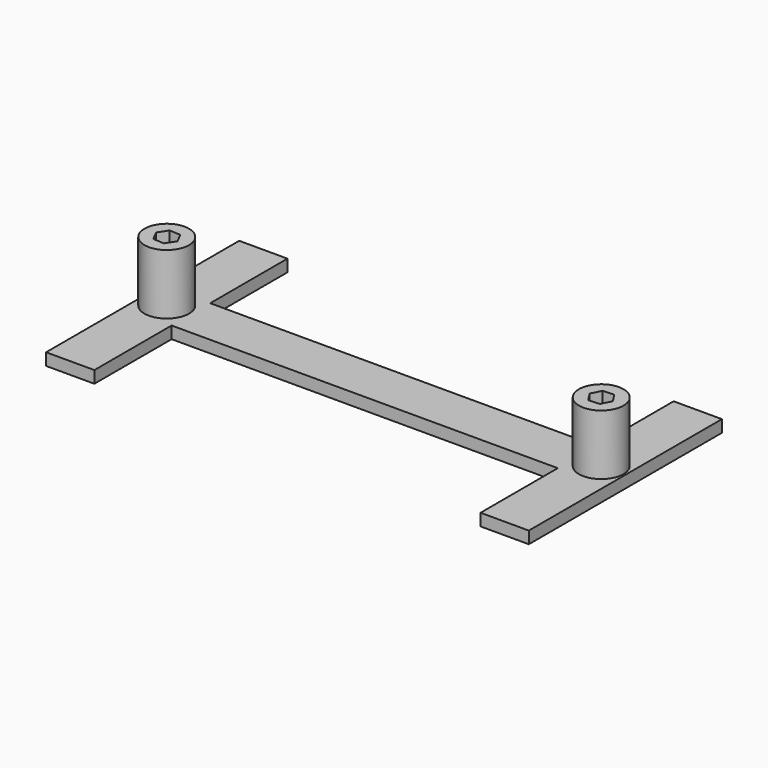
from build123d import *

# Parameters (mm, degrees)
PAD_DEPTH    = 5
SKETCH002_R  = 9.228742
PAD001_DEPTH = 25
POCKET_DEPTH = 25


with BuildPart() as part:
    # Sketch001 → Pad (new body)
    with BuildSketch(Plane.XY):
        Polygon((0, 10), (80, 10), (80, 50), (100, 50), (100, -50), (80, -50), (80, -10), (0, -10), (-80, -10), (-80, -50), (-100, -50), (-100, 50), (-80, 50), (-80, 10), align=None)
    extrude(amount=PAD_DEPTH)

    # Sketch002 → Pad001 (new body)
    with BuildSketch(Plane.XY.offset(5)):
        with Locations((90, 0)):
            Circle(SKETCH002_R)
        with Locations((-90, 0)):
            Circle(SKETCH002_R)
    extrude(amount=PAD001_DEPTH)

    # Sketch003 → Pocket (cut)
    with BuildSketch(Plane.XY.offset(30)):
        Polygon((-87.480573, 3.871152), (-92.092803, 4.117464), (-94.61223, 0.246312), (-92.519427, -3.871152), (-87.907197, -4.117464), (-85.38777, -0.246312), align=None)
    pocket = extrude(amount=-POCKET_DEPTH, mode=Mode.SUBTRACT)

    # Mirrored: Pocket across Sketch003 V_Axis
    add(pocket.mirror(Plane(origin=(0, 0, 30), x_dir=(0, 0, 1), z_dir=(1, 0, 0))), mode=Mode.SUBTRACT)


solid = part.part
